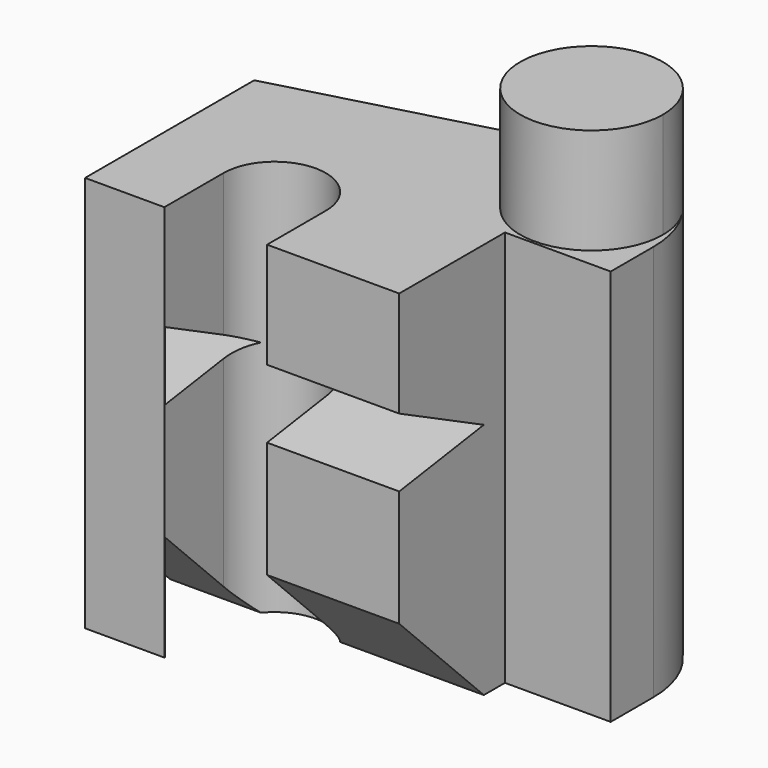
from build123d import *

# Parameters (mm, degrees)
F1_DEPTH = 75
F3_DEPTH = 20
F5_DEPTH = 59.331604


with BuildPart() as f1:
    # F0 (on Top) → F1 (new body)
    with BuildSketch(Plane.XY):
        with BuildLine():
            Line((0, 26.765937), (-54.154223, 12.255357))
            Line((-54.154223, 12.255357), (-54.154223, -27.744643))
            Line((-54.154223, -27.744643), (-39.154223, -27.744643))
            Line((-39.154223, -27.744643), (-39.154223, -13.744643))
            ThreePointArc((-39.154223, -13.744643), (-29.306659, -4.077686), (-19.823619, -14.102482))
            Line((-19.823619, -14.102482), (-19.823619, -27.626852))
            Line((-19.823619, -27.626852), (5.176381, -27.626852))
            Line((5.176381, -27.626852), (5.176381, -2.626852))
            Line((5.176381, -2.626852), (25.176381, -2.626852))
            Line((25.176381, -2.626852), (25.176381, 7.44742))
            ThreePointArc((25.176381, 7.44742), (17.351609, 23.314487), (0, 26.765937))
        make_face()
    extrude(amount=F1_DEPTH)

    # F2 (on face) → F3 (join)
    with BuildSketch(Plane.XY.offset(75)):
        with BuildLine():
            ThreePointArc((21.116702, 19.526583), (-2.439619, 7.072345), (23.856985, 11.373148))
            ThreePointArc((23.856985, 11.373148), (23.15359, 15.673952), (21.116702, 19.526583))
        make_face()
    extrude(amount=F3_DEPTH)

    # F4 (on face) → F5 (cut, through all)
    with BuildSketch(Plane.YZ.offset(5.176381)):
        Polygon((-7.626852, 0), (-27.626852, 20), (-27.626852, 0), align=None)
        Polygon((-7.626852, 45), (-27.626852, 55), (-27.626852, 42.03419), align=None)
    extrude(amount=-F5_DEPTH, mode=Mode.SUBTRACT)


solid = f1.part
